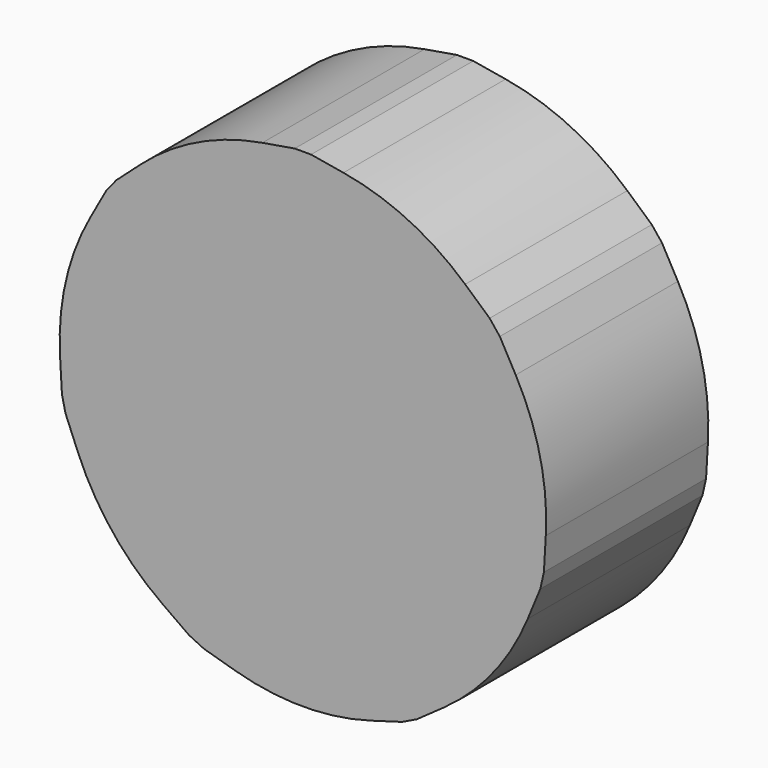
from build123d import *

# Parameters (mm, degrees)
F5_DEPTH = 25
F6_DEPTH = 25
F7_COUNT = 7


with BuildPart() as f5:
    # F3 (on Front) → F5 (new body)
    with BuildSketch(Plane.XZ):
        with BuildLine():
            ThreePointArc((-5, 29.5803989155), (-19.364916731, -22.9128784748), (30, 0))
            ThreePointArc((30, 0), (22.9128784748, 19.364916731), (5, 29.5803989155))
            ThreePointArc((5, 29.5803989155), (0, 30), (-5, 29.5803989155))
        make_face()
    extrude(amount=F5_DEPTH)



with BuildPart() as f6:
    # F3 (on Front) → F6 (new body)
    with BuildSketch(Plane.XZ):
        with BuildLine():
            ThreePointArc((-5, 29.5803989155), (0, 30), (5, 29.5803989155))
            Line((5, 29.5803989155), (1.0056277868, 30.2555710497))
            Line((1.0056277868, 30.2555710497), (0, 30.2555710497))
            Line((0, 30.2555710497), (-1.0056277868, 30.2555710497))
            Line((-1.0056277868, 30.2555710497), (-5, 29.5803989155))
        make_face()
    extrude(amount=F6_DEPTH)


with BuildPart() as f5_1:
    add(f5.part)

    add(f6.part)  # F7 merges F6
    # F7: F6, F5 ×7 about axis
    f7_axis = Axis((0, 33.5468817502, 0), (0, 1, 0))
    for i in range(1, F7_COUNT):
        add(f6.part.rotate(f7_axis, i * 360 / F7_COUNT))
        add(f5.part.rotate(f7_axis, i * 360 / F7_COUNT))


solid = f5_1.part
